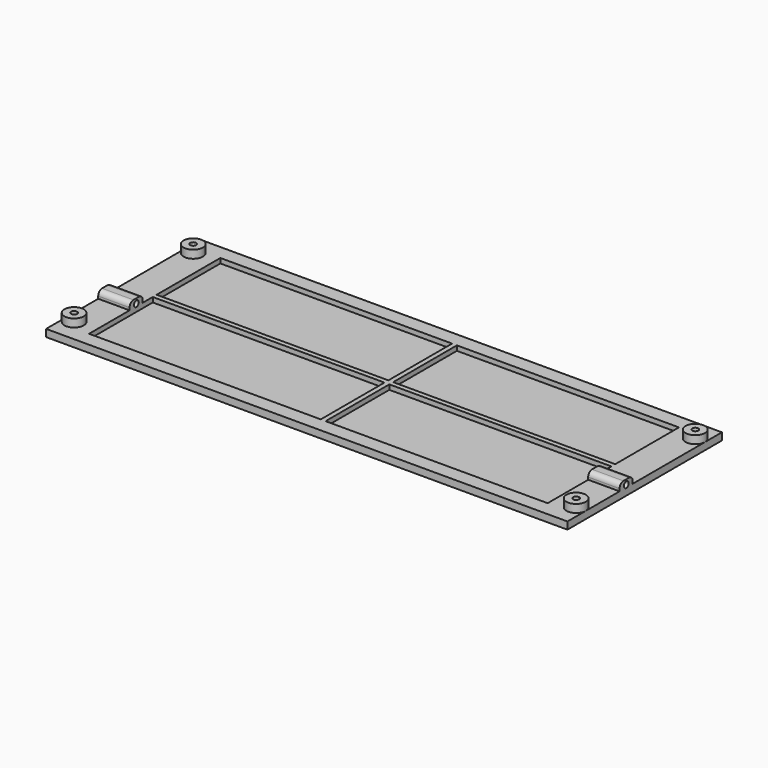
from build123d import *

# Parameters (mm, degrees)
CYLINDER010_R     = 1.25
CYLINDER010_DEPTH = 20
CYLINDER011_R     = 1.25
CYLINDER011_DEPTH = 20
BOX009_W          = 13
BOX009_H          = 6.8
BOX009_DEPTH      = 6
FILLET002_R       = 2
CYLINDER004_R     = 1.25
CYLINDER004_DEPTH = 7
CYLINDER002_R     = 1.25
CYLINDER002_DEPTH = 7
CYLINDER003_R     = 1.25
CYLINDER003_DEPTH = 7
CYLINDER_R        = 1.25
CYLINDER_DEPTH    = 7
BOX002_W          = 190
BOX002_H          = 68
BOX002_DEPTH      = 3
CYLINDER005_R     = 4
CYLINDER005_DEPTH = 6.3
CYLINDER006_R     = 4
CYLINDER006_DEPTH = 6.3
CYLINDER001_R     = 4
CYLINDER001_DEPTH = 6.3
BOX_W             = 216
BOX_H             = 80
BOX_DEPTH         = 3
CYLINDER007_R     = 4
CYLINDER007_DEPTH = 6.3
BOX003_W          = 2
BOX003_H          = 68
BOX003_DEPTH      = 2
BOX004_W          = 190
BOX004_H          = 2
BOX004_DEPTH      = 2
BOX021_W          = 13
BOX021_H          = 6.8
BOX021_DEPTH      = 6
FILLET002004_R    = 2


with BuildPart() as cylinder009:
    # Cylinder010 → Cylinder010 (new body)
    with BuildSketch(Plane(origin=(0, 30.5, 4), x_dir=(0, 0, -1), z_dir=(1, 0, 0))):
        Circle(CYLINDER010_R)
    extrude(amount=CYLINDER010_DEPTH)


with BuildPart() as fusion005:
    # Cylinder011 → Cylinder011 (new body)
    with BuildSketch(Plane(origin=(204, 30.5, 4), x_dir=(0, 0, -1), z_dir=(1, 0, 0))):
        Circle(CYLINDER011_R)
    extrude(amount=CYLINDER011_DEPTH)

    # Fusion005: union Cylinder009
    add(cylinder009.part)


with BuildPart() as fillet002:
    # Box009 → Box009 (new body)
    with BuildSketch(Plane(origin=(2, 29, 0), x_dir=(1, 0, 0), z_dir=(0, 0, 1))):
        with Locations((6.5, 3.4)):
            Rectangle(BOX009_W, BOX009_H)
    extrude(amount=BOX009_DEPTH)

    # Fillet002
    fillet002_edges = [fillet002.edges().sort_by_distance(p)[0] for p in [
        (8.5, 29, 6),
        (8.5, 35.8, 6),
    ]]
    fillet(fillet002_edges, radius=FILLET002_R)


with BuildPart() as fillet002_1:
    # Fillet002 placement: moved
    add(fillet002.part.moved(Location((0, -2, 0))))


with BuildPart() as screwhole003:
    # Cylinder004 → Cylinder004 (new body)
    with BuildSketch(Plane(origin=(214, 9.5, 0), x_dir=(1, 0, 0), z_dir=(0, 0, 1))):
        Circle(CYLINDER004_R)
    extrude(amount=CYLINDER004_DEPTH)


with BuildPart() as screwhole001:
    # Cylinder002 → Cylinder002 (new body)
    with BuildSketch(Plane(origin=(6, 71.2, 0), x_dir=(1, 0, 0), z_dir=(0, 0, 1))):
        Circle(CYLINDER002_R)
    extrude(amount=CYLINDER002_DEPTH)


with BuildPart() as screwhole002:
    # Cylinder003 → Cylinder003 (new body)
    with BuildSketch(Plane(origin=(214, 71.2, 0), x_dir=(1, 0, 0), z_dir=(0, 0, 1))):
        Circle(CYLINDER003_R)
    extrude(amount=CYLINDER003_DEPTH)


with BuildPart() as screwhole:
    # Cylinder → Cylinder (new body)
    with BuildSketch(Plane(origin=(6, 9.5, 0), x_dir=(1, 0, 0), z_dir=(0, 0, 1))):
        Circle(CYLINDER_R)
    extrude(amount=CYLINDER_DEPTH)


with BuildPart() as baseholes:
    # Box002 → Box002 (new body)
    with BuildSketch(Plane(origin=(15, 6, 1), x_dir=(1, 0, 0), z_dir=(0, 0, 1))):
        with Locations((95, 34)):
            Rectangle(BOX002_W, BOX002_H)
    extrude(amount=BOX002_DEPTH)

    # Fusion: union ScrewHole003, ScrewHole001, ScrewHole002, ScrewHole
    add(screwhole003.part)
    add(screwhole001.part)
    add(screwhole002.part)
    add(screwhole.part)


with BuildPart() as cylinder005:
    # Cylinder005 → Cylinder005 (new body)
    with BuildSketch(Plane(origin=(6, 71.2, 0), x_dir=(1, 0, 0), z_dir=(0, 0, 1))):
        Circle(CYLINDER005_R)
    extrude(amount=CYLINDER005_DEPTH)


with BuildPart() as cylinder006:
    # Cylinder006 → Cylinder006 (new body)
    with BuildSketch(Plane(origin=(214, 71.2, 0), x_dir=(1, 0, 0), z_dir=(0, 0, 1))):
        Circle(CYLINDER006_R)
    extrude(amount=CYLINDER006_DEPTH)


with BuildPart() as cylinder001:
    # Cylinder001 → Cylinder001 (new body)
    with BuildSketch(Plane(origin=(6, 9.5, 0), x_dir=(1, 0, 0), z_dir=(0, 0, 1))):
        Circle(CYLINDER001_R)
    extrude(amount=CYLINDER001_DEPTH)


with BuildPart() as base:
    # Box → Box (new body)
    with BuildSketch(Plane(origin=(2, 0, 0), x_dir=(1, 0, 0), z_dir=(0, 0, 1))):
        with Locations((108, 40)):
            Rectangle(BOX_W, BOX_H)
    extrude(amount=BOX_DEPTH)


with BuildPart() as basesubstraction:
    # Cylinder007 → Cylinder007 (new body)
    with BuildSketch(Plane(origin=(214, 9.5, 0), x_dir=(1, 0, 0), z_dir=(0, 0, 1))):
        Circle(CYLINDER007_R)
    extrude(amount=CYLINDER007_DEPTH)

    # Fusion001: union Cylinder005, Cylinder006, Cylinder001, Base
    add(cylinder005.part)
    add(cylinder006.part)
    add(cylinder001.part)
    add(base.part)

    # Cut: cut BaseHoles
    add(baseholes.part, mode=Mode.SUBTRACT)


with BuildPart() as reinforce:
    # Box003 → Box003 (new body)
    with BuildSketch(Plane(origin=(111, 6, 1), x_dir=(1, 0, 0), z_dir=(0, 0, 1))):
        with Locations((1, 34)):
            Rectangle(BOX003_W, BOX003_H)
    extrude(amount=BOX003_DEPTH)


with BuildPart() as reinforce001:
    # Box004 → Box004 (new body)
    with BuildSketch(Plane(origin=(15, 39, 1), x_dir=(1, 0, 0), z_dir=(0, 0, 1))):
        with Locations((95, 1)):
            Rectangle(BOX004_W, BOX004_H)
    extrude(amount=BOX004_DEPTH)


with BuildPart() as bottom:
    # Box021 → Box021 (new body)
    with BuildSketch(Plane(origin=(2, 29, 0), x_dir=(1, 0, 0), z_dir=(0, 0, 1))):
        with Locations((6.5, 3.4)):
            Rectangle(BOX021_W, BOX021_H)
    extrude(amount=BOX021_DEPTH)

    # Fillet002004
    fillet002004_edges = [bottom.edges().sort_by_distance(p)[0] for p in [
        (8.5, 29, 6),
        (8.5, 35.8, 6),
    ]]
    fillet(fillet002004_edges, radius=FILLET002004_R)


with BuildPart() as bottom_1:
    # Fillet002004 placement: moved
    add(bottom.part.moved(Location((203, -2, 0))))

    # Fusion008: union Fillet002, BaseSubstraction, Reinforce, Reinforce001
    add(fillet002_1.part)
    add(basesubstraction.part)
    add(reinforce.part)
    add(reinforce001.part)

    # Cut001006: cut Fusion005
    add(fusion005.part, mode=Mode.SUBTRACT)


solid = bottom_1.part
